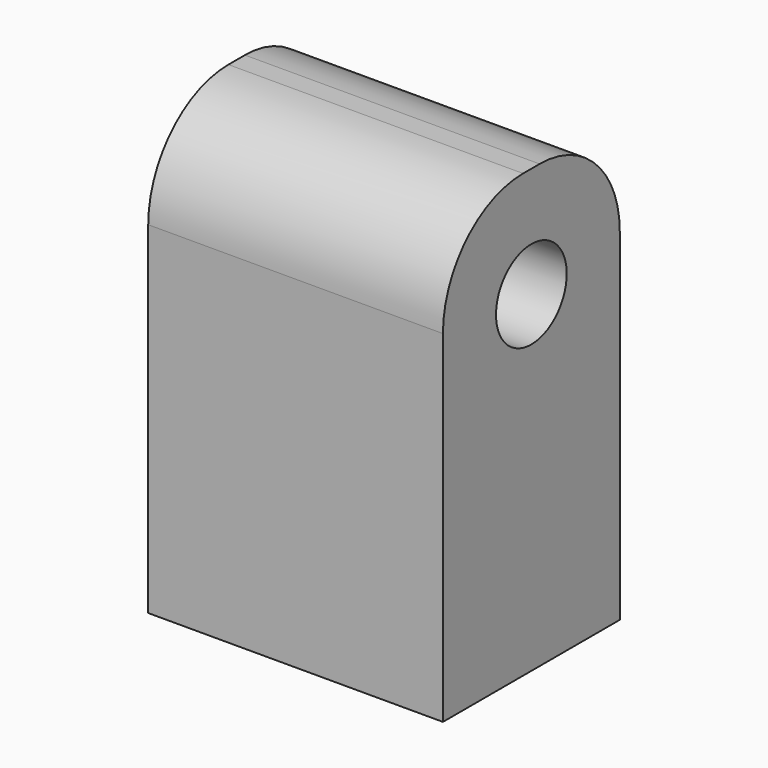
from build123d import *

# Parameters (mm, degrees)
CYLINDER005_R        = 1.5
CYLINDER005_DEPTH    = 10
BOX022_W             = 10
BOX022_H             = 7.5
BOX022_DEPTH         = 15
FILLET002008005014_R = 3.4


with BuildPart() as cylinder005:
    # Cylinder005 → Cylinder005 (new body)
    with BuildSketch(Plane(origin=(90, 10, 28.25), x_dir=(0, 0, -1), z_dir=(1, 0, 0))):
        Circle(CYLINDER005_R)
    extrude(amount=CYLINDER005_DEPTH)


with BuildPart() as fillet002008005014:
    # Box022 → Box022 (new body)
    with BuildSketch(Plane(origin=(90, 6.25, 17), x_dir=(1, 0, 0), z_dir=(0, 0, 1))):
        with Locations((5, 3.75)):
            Rectangle(BOX022_W, BOX022_H)
    extrude(amount=BOX022_DEPTH)

    # Cut001005: cut Cylinder005
    add(cylinder005.part, mode=Mode.SUBTRACT)

    # Fillet002008005014
    fillet002008005014_edges = [fillet002008005014.edges().sort_by_distance(p)[0] for p in [
        (95, 6.25, 32),
        (95, 13.75, 32),
    ]]
    fillet(fillet002008005014_edges, radius=FILLET002008005014_R)


with BuildPart() as fillet002008005014_1:
    # Fillet002008005014 placement: moved
    add(fillet002008005014.part.moved(Location((0, 0, 3.5))))


solid = fillet002008005014_1.part
